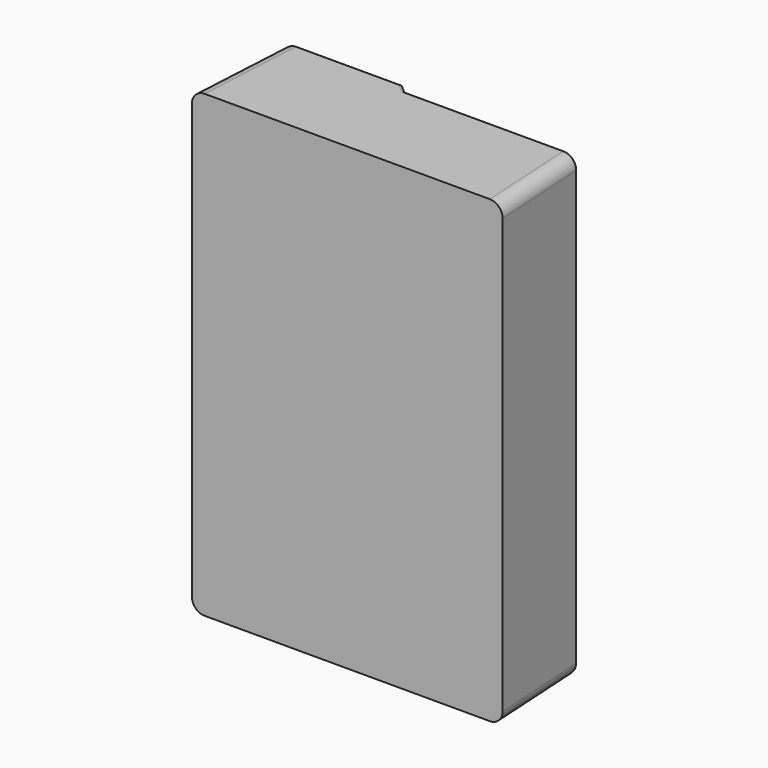
from build123d import *

# Parameters (mm, degrees)
PAD_DEPTH   = 90
FILLET_R    = 5
FILLET001_R = 1


with BuildPart() as part:
    # Sketch → Pad (new body, symmetric)
    with BuildSketch(Plane.XY):
        Polygon((51.85, 39.5), (119.35, 39.5), (121.7, 0), (0, 0), (2.35, 42.5), (48.35, 42.5), align=None)
    extrude(amount=PAD_DEPTH, both=True)

    # Fillet
    fillet_edges = [part.edges().sort_by_distance(p)[0] for p in [
        (120.525, 19.75, 90),
        (1.175, 21.25, 90),
        (120.525, 19.75, -90),
        (1.175, 21.25, -90),
    ]]
    fillet(fillet_edges, radius=FILLET_R)

    # Fillet001
    fillet001_edges = [part.edges().sort_by_distance(p)[0] for p in [
        (83.09558, 39.5, 90),
        (50.1, 41, 90),
        (27.853819, 42.5, 90),
        (3.818055, 42.5, 88.536883),
        (2.35, 42.5, 0),
        (3.818055, 42.5, -88.536883),
        (27.853819, 42.5, -90),
        (50.1, 41, -90),
        (83.09558, 39.5, -90),
        (117.88138, 39.5, -88.537095),
        (119.35, 39.5, 0),
        (117.88138, 39.5, 88.537095),
    ]]
    fillet(fillet001_edges, radius=FILLET001_R)


solid = part.part
